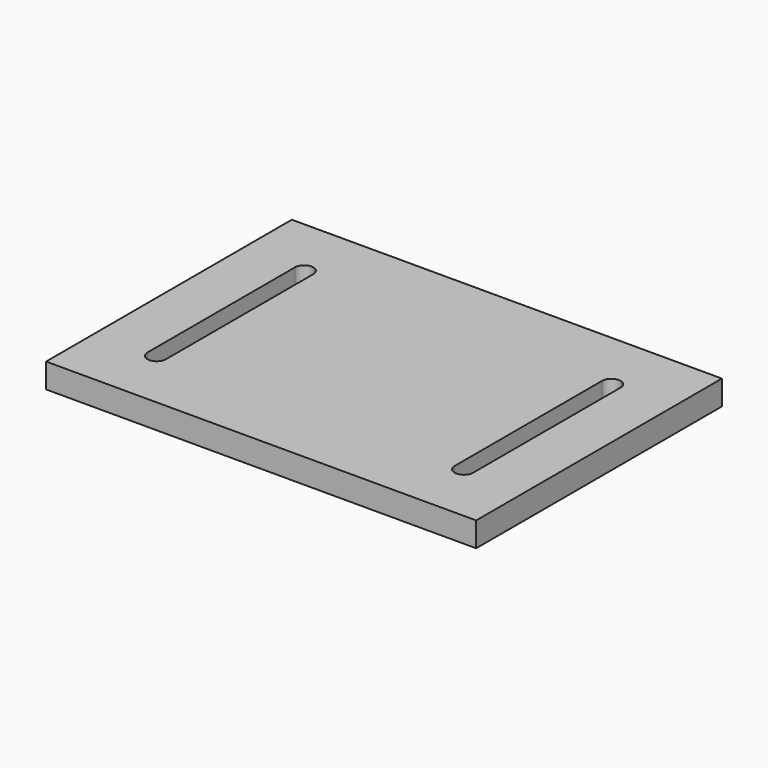
from build123d import *

# Parameters (mm, degrees)
F0_W     = 88.9
F0_H     = 63.5
F1_DEPTH = 5.08
F3_DEPTH = 5.081


with BuildPart() as f1:
    # F0 (on Top) → F1 (new body)
    with BuildSketch(Plane.XY):
        with Locations((44.45, 31.75)):
            Rectangle(F0_W, F0_H)
    extrude(amount=F1_DEPTH)

    # F2 (on face) → F3 (cut, through all)
    with BuildSketch(Plane.XY.offset(5.08)):
        with BuildLine():
            ThreePointArc((14.605, 50.8), (12.7, 52.705), (10.795, 50.8))
            Line((10.795, 50.8), (10.795, 12.7))
            ThreePointArc((10.795, 12.7), (12.7, 10.795), (14.605, 12.7))
            Line((14.605, 12.7), (14.605, 50.8))
        make_face()
        with BuildLine():
            ThreePointArc((78.105, 50.8), (76.2, 52.705), (74.295, 50.8))
            Line((74.295, 50.8), (74.295, 12.7))
            ThreePointArc((74.295, 12.7), (76.2, 10.795), (78.105, 12.7))
            Line((78.105, 12.7), (78.105, 50.8))
        make_face()
    extrude(amount=-F3_DEPTH, mode=Mode.SUBTRACT)


solid = f1.part
